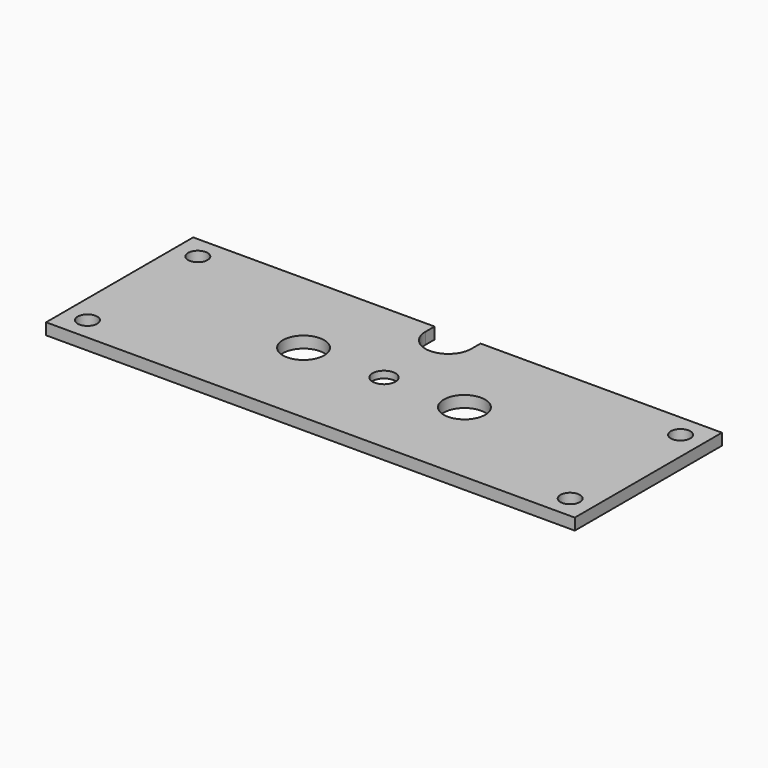
from build123d import *

# Parameters (mm, degrees)
F0_R     = 4.25
F0_R_2   = 9
F0_R_3   = 5
F1_DEPTH = 5
F2_R     = 10
F3_DEPTH = 2


with BuildPart() as f1:
    # F0 (on Top) → F1 (new body)
    with BuildSketch(Plane.XY):
        with BuildLine():
            Line((115, -40), (115, 40))
            Line((115, 40), (10, 40))
            Line((10, 40), (10, 35))
            ThreePointArc((10, 35), (0, 25), (-10, 35))
            Line((-10, 35), (-10, 40))
            Line((-10, 40), (-115, 40))
            Line((-115, 40), (-115, -40))
            Line((-115, -40), (115, -40))
        make_face()
        with Locations((-105, -30)):
            Circle(F0_R, mode=Mode.SUBTRACT)
        with Locations((105, -30)):
            Circle(F0_R, mode=Mode.SUBTRACT)
        with Locations((-35, 0)):
            Circle(F0_R_2, mode=Mode.SUBTRACT)
        with Locations((-105, 30)):
            Circle(F0_R, mode=Mode.SUBTRACT)
        Circle(F0_R_3, mode=Mode.SUBTRACT)
        with Locations((35, 0)):
            Circle(F0_R_2, mode=Mode.SUBTRACT)
        with Locations((105, 30)):
            Circle(F0_R, mode=Mode.SUBTRACT)
    extrude(amount=F1_DEPTH)

    # F2 (on face) → F3 (cut)
    with BuildSketch(Plane.XY):
        Circle(F2_R)
    extrude(amount=F3_DEPTH, mode=Mode.SUBTRACT)


solid = f1.part
